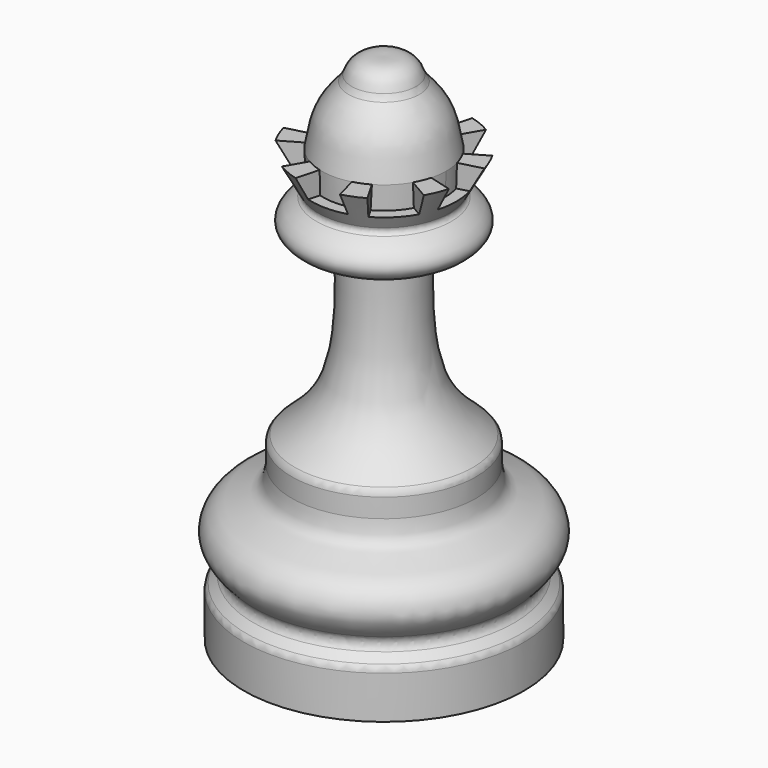
from build123d import *

# Parameters (mm, degrees)
F3_DEPTH = 5
F3_TAPER = -3
F4_R     = 3
F5_R     = 1
F6_R     = 2
F7_R     = 2
F8_R     = 2
F9_R     = 2


with BuildPart() as f1:
    # F0 (on Front) → F1 (revolve)
    with BuildSketch(Plane.XZ):
        with BuildLine():
            Line((0, 110), (0, 0))
            Line((0, 0), (30, 0))
            Line((30, 0), (30, 10))
            Line((30, 10), (26.4617872004, 13.5328529809))
            add(Edge.make_bspline(
                [(26.4617872004, 13.5328529809), (28.497862542, 15.5024379284), (32.368402491, 19.246580921), (28.9894313878, 26.4198150998), (20.348105663, 27.3720324299), (19.9381331152, 31.2429729939), (19.7567231953, 32.9558365047)],
                knots=[0, 0, 0, 0, 0.2707651627, 0.5147193513, 0.7852667842, 1, 1, 1, 1], degree=3))
            Line((19.7567231953, 32.9558365047), (19.7567231953, 37.9558365047))
            add(Edge.make_bspline(
                [(19.7567231953, 37.9558365047), (16.2035880728, 40.9936191573), (8.0235127627, 48.212744998), (7.9555840305, 65.4022274926), (8.4619674318, 75.3533169627)],
                knots=[0, 0, 0, 0, 0.4216835393, 1, 1, 1, 1], degree=3))
            Line((8.4619674318, 75.3533169627), (13.4619674318, 75.3533169627))
            add(Edge.make_bspline(
                [(13.4619674318, 75.3533169627), (15.3321584412, 75.424704827), (20.6007948122, 78.3503519834), (16.2662629027, 82.8207183624), (13.4619674318, 83.8328078389)],
                knots=[0, 0, 0, 0, 0.4723383616, 1, 1, 1, 1], degree=3))
            Line((13.4619674318, 83.8328078389), (18.3377136663, 92.5636210116))
            Line((18.3377136663, 92.5636210116), (13.3377136663, 92.5636210116))
            add(Edge.make_bspline(
                [(13.3377136663, 92.5636210116), (12.8784735853, 95.2587850069), (11.9869754788, 100.4907621321), (8.6594316905, 104.0313704385), (7.0460154675, 105.7480946183)],
                knots=[0, 0, 0, 0, 0.5151329853, 1, 1, 1, 1], degree=3))
            add(Edge.make_bspline(
                [(7.0460154675, 105.7480946183), (6.690162968, 107.9490831529), (4.3450284238, 110.029092084), (2.1195174195, 110.0541949272), (0, 110)],
                knots=[0, 0, 0, 0, 0.5080350859, 1, 1, 1, 1], degree=3))
        make_face()
    revolve(axis=Axis((0, 0, 55), (0, 0, 1)))

    # F2 (on face) → F3 (cut)
    with BuildSketch(Plane.XY.offset(92.5636210116)):
        with BuildLine():
            ThreePointArc((-17.7128712253, -4.7461495405), (-18.3377136663, 0), (-17.7128712253, 4.7461495405))
            Line((-17.7128712253, 4.7461495405), (-19.1110351877, 5.1207864451))
            ThreePointArc((-19.1110351877, 5.1207864451), (-19.7851995128, 0), (-19.1110351877, -5.1207864451))
            Line((-19.1110351877, -5.1207864451), (-17.7128712253, -4.7461495405))
        make_face()
        with BuildLine():
            ThreePointArc((-12.8832420939, -3.452054315), (-13.3377136663, 0), (-12.8832420939, 3.452054315))
            Line((-12.8832420939, 3.452054315), (-17.7128712253, 4.7461495405))
            ThreePointArc((-17.7128712253, 4.7461495405), (-18.3377136663, 0), (-17.7128712253, -4.7461495405))
            Line((-17.7128712253, -4.7461495405), (-12.8832420939, -3.452054315))
        make_face()
        with BuildLine():
            ThreePointArc((-11.5507988634, 6.6688568331), (-9.4311877789, 9.4311877789), (-6.6688568331, 11.5507988634))
            Line((-6.6688568331, 11.5507988634), (-9.1688568331, 15.8809258823))
            ThreePointArc((-9.1688568331, 15.8809258823), (-12.9667216849, 12.9667216849), (-15.8809258823, 9.1688568331))
            Line((-15.8809258823, 9.1688568331), (-11.5507988634, 6.6688568331))
        make_face()
        with BuildLine():
            ThreePointArc((-3.452054315, 12.8832420939), (0, 13.3377136663), (3.452054315, 12.8832420939))
            Line((3.452054315, 12.8832420939), (4.7461495405, 17.7128712253))
            ThreePointArc((4.7461495405, 17.7128712253), (0, 18.3377136663), (-4.7461495405, 17.7128712253))
            Line((-4.7461495405, 17.7128712253), (-3.452054315, 12.8832420939))
        make_face()
        with BuildLine():
            Line((9.1688568331, 15.8809258823), (6.6688568331, 11.5507988634))
            ThreePointArc((6.6688568331, 11.5507988634), (9.4311877789, 9.4311877789), (11.5507988634, 6.6688568331))
            Line((11.5507988634, 6.6688568331), (15.8809258823, 9.1688568331))
            ThreePointArc((15.8809258823, 9.1688568331), (12.9667216849, 12.9667216849), (9.1688568331, 15.8809258823))
        make_face()
        with BuildLine():
            Line((17.7128712253, 4.7461495405), (12.8832420939, 3.452054315))
            ThreePointArc((12.8832420939, 3.452054315), (13.2236076769, 1.7409209778), (13.3377136663, 0))
            ThreePointArc((13.3377136663, 0), (13.2236076769, -1.7409209778), (12.8832420939, -3.452054315))
            Line((12.8832420939, -3.452054315), (17.7128712253, -4.7461495405))
            ThreePointArc((17.7128712253, -4.7461495405), (18.1808319838, -2.3935519389), (18.3377136663, 0))
            ThreePointArc((18.3377136663, 0), (18.1808319838, 2.3935519389), (17.7128712253, 4.7461495405))
        make_face()
        with BuildLine():
            Line((15.8809258823, -9.1688568331), (11.5507988634, -6.6688568331))
            ThreePointArc((11.5507988634, -6.6688568331), (9.4311877789, -9.4311877789), (6.6688568331, -11.5507988634))
            Line((6.6688568331, -11.5507988634), (9.1688568331, -15.8809258823))
            ThreePointArc((9.1688568331, -15.8809258823), (12.9667216849, -12.9667216849), (15.8809258823, -9.1688568331))
        make_face()
        with BuildLine():
            ThreePointArc((3.452054315, -12.8832420939), (0, -13.3377136663), (-3.452054315, -12.8832420939))
            Line((-3.452054315, -12.8832420939), (-4.7461495405, -17.7128712253))
            ThreePointArc((-4.7461495405, -17.7128712253), (0, -18.3377136663), (4.7461495405, -17.7128712253))
            Line((4.7461495405, -17.7128712253), (3.452054315, -12.8832420939))
        make_face()
        with BuildLine():
            ThreePointArc((-6.6688568331, -11.5507988634), (-9.4311877789, -9.4311877789), (-11.5507988634, -6.6688568331))
            Line((-11.5507988634, -6.6688568331), (-15.8809258823, -9.1688568331))
            ThreePointArc((-15.8809258823, -9.1688568331), (-12.9667216849, -12.9667216849), (-9.1688568331, -15.8809258823))
            Line((-9.1688568331, -15.8809258823), (-6.6688568331, -11.5507988634))
        make_face()
    extrude(amount=-F3_DEPTH, taper=F3_TAPER, mode=Mode.SUBTRACT)

    # F4
    f4_edges = [f1.edges().sort_by_distance(p)[0] for p in [
        (-7.046015, 0, 105.748095),
    ]]
    fillet(f4_edges, radius=F4_R)

    # F5
    f5_edges = [f1.edges().sort_by_distance(p)[0] for p in [
        (-13.461967, 0, 83.832808),
    ]]
    fillet(f5_edges, radius=F5_R)

    # F6
    f6_edges = [f1.edges().sort_by_distance(p)[0] for p in [
        (-8.461967, 0, 75.353317),
    ]]
    fillet(f6_edges, radius=F6_R)

    # F7
    f7_edges = [f1.edges().sort_by_distance(p)[0] for p in [
        (-26.461787, 0, 13.532853),
    ]]
    fillet(f7_edges, radius=F7_R)

    # F8
    f8_edges = [f1.edges().sort_by_distance(p)[0] for p in [
        (-30, 0, 10),
    ]]
    fillet(f8_edges, radius=F8_R)

    # F9
    f9_edges = [f1.edges().sort_by_distance(p)[0] for p in [
        (-19.756723, 0, 37.955837),
    ]]
    fillet(f9_edges, radius=F9_R)


solid = f1.part
